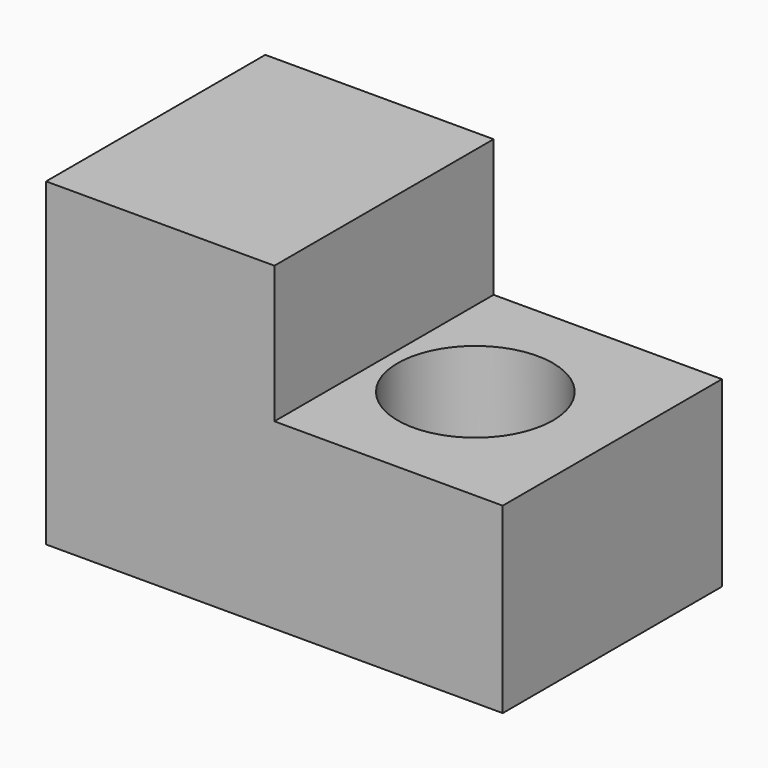
from build123d import *

# Parameters (mm, degrees)
F0_W     = 50
F0_H     = 35
F1_DEPTH = 30
F2_W     = 25
F2_H     = 15
F3_DEPTH = 30.001
F4_R     = 8.5
F5_DEPTH = 20.001


with BuildPart() as f1:
    # F0 (on Front) → F1 (new body)
    with BuildSketch(Plane.XZ):
        with Locations((25, 17.5)):
            Rectangle(F0_W, F0_H)
    extrude(amount=F1_DEPTH)

    # F2 (on face) → F3 (cut, through all)
    with BuildSketch(Plane.XZ.offset(30)):
        with Locations((37.5, 27.5)):
            Rectangle(F2_W, F2_H)
    extrude(amount=-F3_DEPTH, mode=Mode.SUBTRACT)

    # F4 (on face) → F5 (cut, through all)
    with BuildSketch(Plane.XY.offset(20)):
        with Locations((35, -15)):
            Circle(F4_R)
    extrude(amount=-F5_DEPTH, mode=Mode.SUBTRACT)


solid = f1.part
